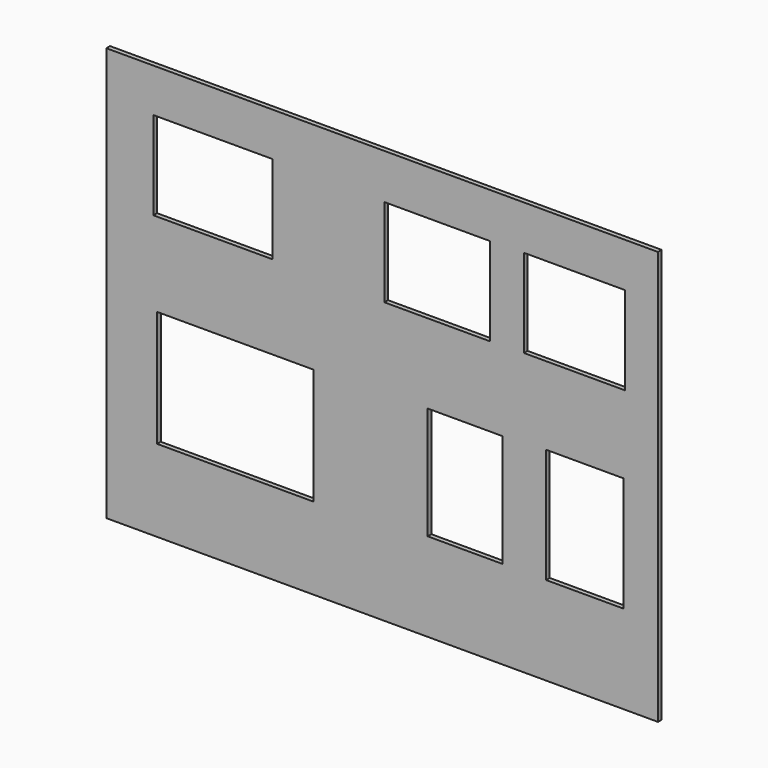
from build123d import *

# Parameters (mm, degrees)
F0_W     = 170.3644944355
F0_H     = 126.3736598194
F0_W_2   = 81.582993269
F0_H_2   = 122.3744936287
F0_W_3   = 83.9825123549
F0_H_3   = 124.7739978135
F0_W_4   = 129.5729912817
F0_H_4   = 95.9800034761
F0_W_5   = 115.175999701
F0_W_6   = 109.5771491528
F1_DEPTH = 5
F2_DEPTH = 5


with BuildPart() as f1:
    # F0 (on Front) → F1 (new body)
    with BuildSketch(Plane.XZ):
        Polygon((362.0641423762, 334.581340097), (-237.9358576238, 334.581340097), (-237.9358576238, 127.1041715145), (-237.9358576238, 87.1041715145), (-237.9358576238, -115.418659903), (362.0641423762, -115.418659903), (362.0641423762, 87.1041715145), (362.0641423762, 109.581340097), (362.0641423762, 127.1041715145), align=None)
        with Locations((-97.5812994875, 36.853896454)):
            Rectangle(F0_W, F0_H, mode=Mode.SUBTRACT)
        with Locations((152.3666083813, 42.0528110117)):
            Rectangle(F0_W_2, F0_H_2, mode=Mode.SUBTRACT)
        with Locations((282.3395207524, 43.252563104)):
            Rectangle(F0_W_3, F0_H_3, mode=Mode.SUBTRACT)
        with Locations((-121.9762098044, 239.211730659)):
            Rectangle(F0_W_4, F0_H_4, mode=Mode.SUBTRACT)
        with Locations((121.9729445875, 237.6120612025)):
            Rectangle(F0_W_5, F0_H_4, mode=Mode.SUBTRACT)
        with Locations((271.1418420076, 238.4118959308)):
            Rectangle(F0_W_6, F0_H_4, mode=Mode.SUBTRACT)
    extrude(amount=F1_DEPTH)

    # F0 (on Front) → F2 (join)
    with BuildSketch(Plane.XZ):
        Polygon((362.0641423762, 334.581340097), (-237.9358576238, 334.581340097), (-237.9358576238, 127.1041715145), (-237.9358576238, 87.1041715145), (-237.9358576238, -115.418659903), (362.0641423762, -115.418659903), (362.0641423762, 87.1041715145), (362.0641423762, 109.581340097), (362.0641423762, 127.1041715145), align=None)
        with Locations((-97.5812994875, 36.853896454)):
            Rectangle(F0_W, F0_H, mode=Mode.SUBTRACT)
        with Locations((152.3666083813, 42.0528110117)):
            Rectangle(F0_W_2, F0_H_2, mode=Mode.SUBTRACT)
        with Locations((282.3395207524, 43.252563104)):
            Rectangle(F0_W_3, F0_H_3, mode=Mode.SUBTRACT)
        with Locations((-121.9762098044, 239.211730659)):
            Rectangle(F0_W_4, F0_H_4, mode=Mode.SUBTRACT)
        with Locations((121.9729445875, 237.6120612025)):
            Rectangle(F0_W_5, F0_H_4, mode=Mode.SUBTRACT)
        with Locations((271.1418420076, 238.4118959308)):
            Rectangle(F0_W_6, F0_H_4, mode=Mode.SUBTRACT)
    extrude(amount=F2_DEPTH)


solid = f1.part
